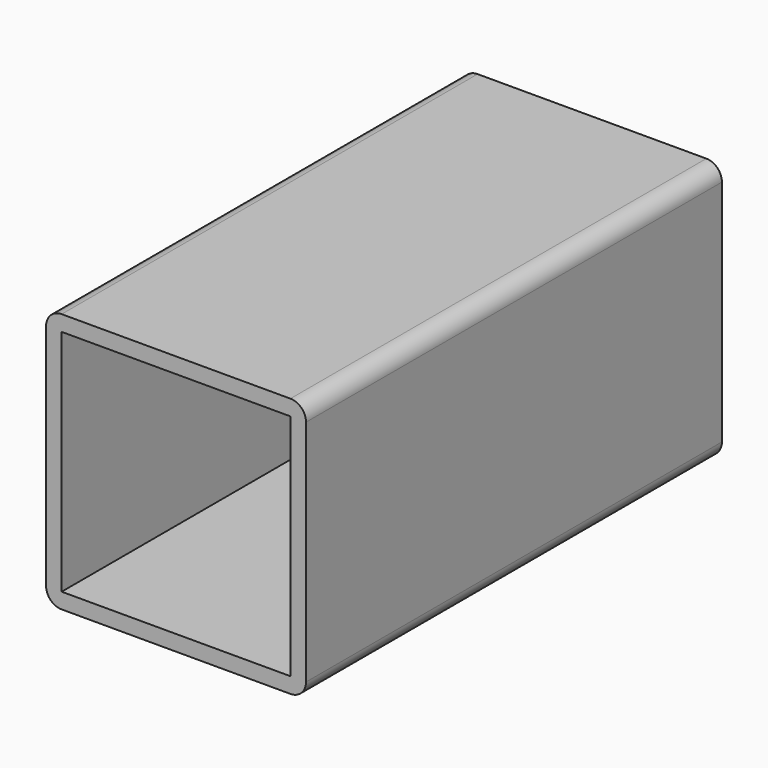
from build123d import *

# Parameters (mm, degrees)
F0_W     = 22.352
F0_H     = 22.352
F1_DEPTH = 50.8


with BuildPart() as f1:
    # F0 (on Front) → F1 (new body)
    with BuildSketch(Plane.XZ):
        with BuildLine():
            ThreePointArc((0, 1.524), (0.446369, 0.446369), (1.524, 0))
            Line((1.524, 0), (23.876, 0))
            ThreePointArc((23.876, 0), (24.953631, 0.446369), (25.4, 1.524))
            Line((25.4, 1.524), (25.4, 23.876))
            ThreePointArc((25.4, 23.876), (24.953631, 24.953631), (23.876, 25.4))
            Line((23.876, 25.4), (1.524, 25.4))
            ThreePointArc((1.524, 25.4), (0.446369, 24.953631), (0, 23.876))
            Line((0, 23.876), (0, 1.524))
        make_face()
        with Locations((12.7, 12.7)):
            Rectangle(F0_W, F0_H, mode=Mode.SUBTRACT)
    extrude(amount=F1_DEPTH)


solid = f1.part
